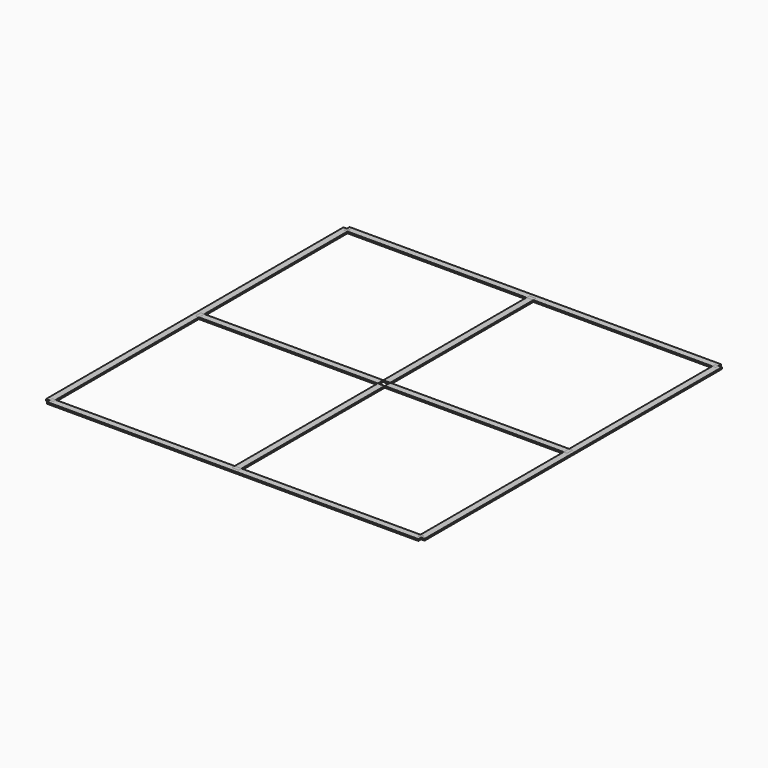
from build123d import *

# Parameters (mm, degrees)
F0_W     = 2.5
F0_H     = 2.5
F1_DEPTH = 1.2
F0_W_2   = 5
F0_H_2   = 5
F2_DEPTH = 1.2
F0_W_3   = 130
F0_H_3   = 130


with BuildPart() as f1:
    # F0 (on Top) → F1 (new body)
    with BuildSketch(Plane.XY):
        with Locations((133.75, 133.75)):
            Rectangle(F0_W, F0_H)
    extrude(amount=F1_DEPTH)


with BuildPart() as f1b:
    # F0 (on Top) → F1, piece 2 (new body)
    with BuildSketch(Plane.XY):
        with Locations((-133.75, 133.75)):
            Rectangle(F0_W, F0_H)
    extrude(amount=F1_DEPTH)


with BuildPart() as f1c:
    # F0 (on Top) → F1, piece 3 (new body)
    with BuildSketch(Plane.XY):
        with Locations((-133.75, -133.75)):
            Rectangle(F0_W, F0_H)
    extrude(amount=F1_DEPTH)


with BuildPart() as f1d:
    # F0 (on Top) → F1, piece 4 (new body)
    with BuildSketch(Plane.XY):
        with Locations((133.75, -133.75)):
            Rectangle(F0_W, F0_H)
    extrude(amount=F1_DEPTH)


with BuildPart() as f1e:
    # F0 (on Top) → F1, piece 5 (new body)
    with BuildSketch(Plane.XY):
        with Locations((0, -133.75)):
            Rectangle(F0_W_2, F0_H)
    extrude(amount=F1_DEPTH)


with BuildPart() as f1f:
    # F0 (on Top) → F1, piece 6 (new body)
    with BuildSketch(Plane.XY):
        with Locations((133.75, 0)):
            Rectangle(F0_W, F0_H_2)
    extrude(amount=F1_DEPTH)


with BuildPart() as f1g:
    # F0 (on Top) → F1, piece 7 (new body)
    with BuildSketch(Plane.XY):
        with Locations((-133.75, 0)):
            Rectangle(F0_W, F0_H_2)
    extrude(amount=F1_DEPTH)


with BuildPart() as f1h:
    # F0 (on Top) → F1, piece 8 (new body)
    with BuildSketch(Plane.XY):
        with Locations((0, 133.75)):
            Rectangle(F0_W_2, F0_H)
    extrude(amount=F1_DEPTH)


with BuildPart() as f2:
    # F0 (on Top) → F2 (new body)
    with BuildSketch(Plane.XY):
        Polygon((-132.5, -132.5), (-132.5, -2.5), (-135, -2.5), (-135, 2.5), (-132.5, 2.5), (-132.5, 132.5), (-135, 132.5), (-135, 135), (-137.5, 135), (-137.5, -135), (-135, -135), (-135, -132.5), align=None)
    extrude(amount=F2_DEPTH)


with BuildPart() as f2b:
    # F0 (on Top) → F2, piece 2 (new body)
    with BuildSketch(Plane.XY):
        with Locations((-67.5, 0)):
            Rectangle(F0_W_3, F0_H_2)
    extrude(amount=F2_DEPTH)


with BuildPart() as f2c:
    # F0 (on Top) → F2, piece 3 (new body)
    with BuildSketch(Plane.XY):
        with Locations((0, 67.5)):
            Rectangle(F0_W_2, F0_H_3)
    extrude(amount=F2_DEPTH)


with BuildPart() as f2d:
    # F0 (on Top) → F2, piece 4 (new body)
    with BuildSketch(Plane.XY):
        Polygon((2.5, 132.5), (132.5, 132.5), (132.5, 135), (135, 135), (135, 137.5), (-135, 137.5), (-135, 135), (-132.5, 135), (-132.5, 132.5), (-2.5, 132.5), (-2.5, 135), (2.5, 135), align=None)
    extrude(amount=F2_DEPTH)


with BuildPart() as f2e:
    # F0 (on Top) → F2, piece 5 (new body)
    with BuildSketch(Plane.XY):
        Polygon((135, 2.5), (135, -2.5), (132.5, -2.5), (132.5, -132.5), (135, -132.5), (135, -135), (137.5, -135), (137.5, 135), (135, 135), (135, 132.5), (132.5, 132.5), (132.5, 2.5), align=None)
    extrude(amount=F2_DEPTH)


with BuildPart() as f2f:
    # F0 (on Top) → F2, piece 6 (new body)
    with BuildSketch(Plane.XY):
        Polygon((132.5, -135), (132.5, -132.5), (2.5, -132.5), (2.5, -135), (-2.5, -135), (-2.5, -132.5), (-132.5, -132.5), (-132.5, -135), (-135, -135), (-135, -137.5), (135, -137.5), (135, -135), align=None)
    extrude(amount=F2_DEPTH)


with BuildPart() as f2g:
    # F0 (on Top) → F2, piece 7 (new body)
    with BuildSketch(Plane.XY):
        with Locations((67.5, 0)):
            Rectangle(F0_W_3, F0_H_2)
    extrude(amount=F2_DEPTH)


with BuildPart() as f2h:
    # F0 (on Top) → F2, piece 8 (new body)
    with BuildSketch(Plane.XY):
        with Locations((0, -67.5)):
            Rectangle(F0_W_2, F0_H_3)
    extrude(amount=F2_DEPTH)


solid = Compound([f1.part, f1b.part, f1c.part, f1d.part, f1e.part, f1f.part, f1g.part, f1h.part, f2.part, f2b.part, f2c.part, f2d.part, f2e.part, f2f.part, f2g.part, f2h.part])
